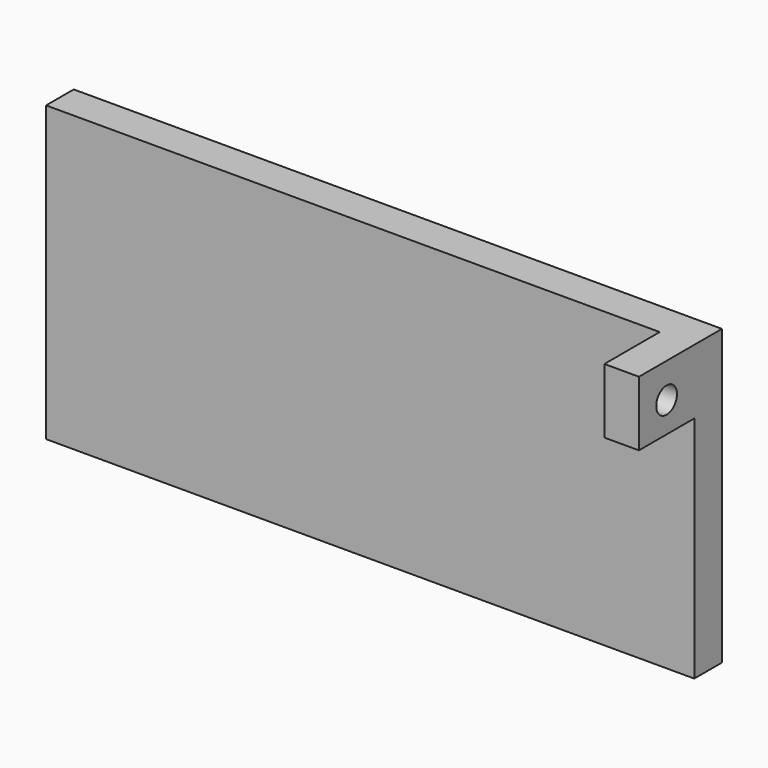
from build123d import *

# Parameters (mm, degrees)
F0_W     = 150
F0_H     = 68
F1_DEPTH = 8
F2_W     = 24
F2_H     = 15
F2_R     = 3
F3_DEPTH = 8


with BuildPart() as f1:
    # F0 (on Front) → F1 (new body)
    with BuildSketch(Plane.XZ):
        with Locations((-75, -34)):
            Rectangle(F0_W, F0_H)
    extrude(amount=F1_DEPTH)

    # F2 (on face) → F3 (join)
    with BuildSketch(Plane.YZ):
        with Locations((-12, -7.5)):
            Rectangle(F2_W, F2_H)
        with Locations((-16, -8)):
            Circle(F2_R, mode=Mode.SUBTRACT)
    extrude(amount=-F3_DEPTH)


solid = f1.part
